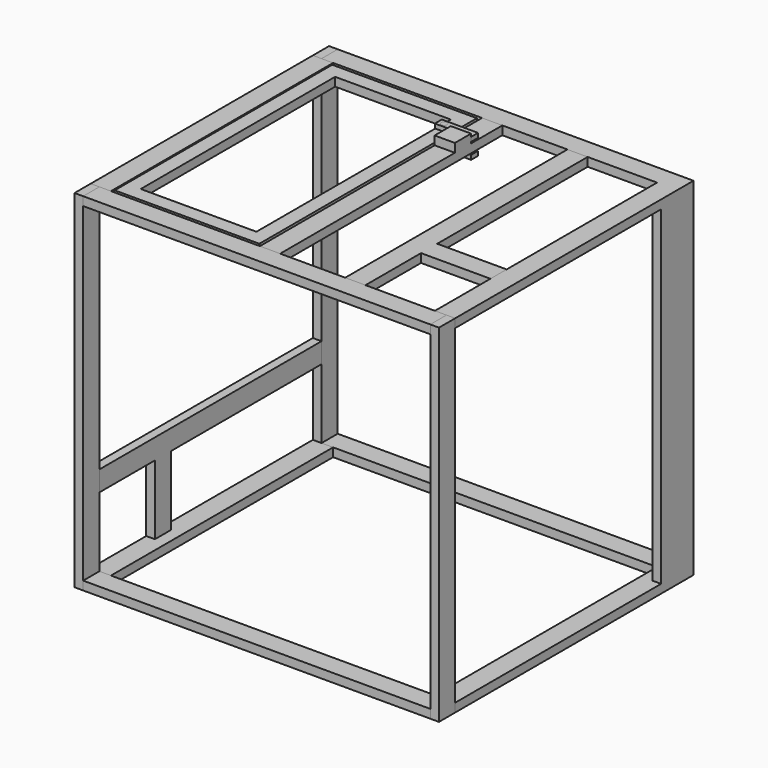
from build123d import *

# Parameters (mm, degrees)
F0_W           = 1524
F0_H           = 88.9
F1_DEPTH       = 38.1
F2_W           = 88.9
F2_H           = 1485.9
F2_H_2         = 38.1
F3_DEPTH       = 38.1
F4_W           = 88.9
F4_H           = 1485.9
F4_H_2         = 38.1
F5_DEPTH       = 38.1
F6_W           = 88.9
F6_H           = 38.1
F7_DEPTH       = 1524
F8_W           = 88.9
F8_H           = 38.1
F9_DEPTH       = 1219.2
F8_W_2         = 50.8
F8_W_3         = 38.1
F12_DEPTH      = 88.9
F13_W          = 508
F13_H          = 63.5
F14_DEPTH      = 38.1
F15_W          = 88.9
F15_H          = 1219.2
F16_DEPTH      = 38.1
F17_R          = 12.7
F18_DEPTH      = 25.4
F18_DEPTH_BACK = 63.5
F19_W          = 158.75
F19_H          = 38.1
F19_R          = 12.7
F20_DEPTH      = 19.05
F23_W          = 88.9
F23_H          = 88.9
F24_DEPTH      = 38.1
F25_W          = 304.8
F25_H          = 88.9
F26_DEPTH      = 38.1
F27_W          = 88.9
F27_H          = 304.8
F28_DEPTH      = 38.1


with BuildPart() as f1:
    # F0 (on Top) → F1 (new body)
    with BuildSketch(Plane.XY):
        with Locations((660.9481970845, 44.45)):
            Rectangle(F0_W, F0_H)
    extrude(amount=F1_DEPTH)


with BuildPart() as f3:
    # F2 (on face) → F3 (new body)
    with BuildSketch(Plane.YZ.offset(1422.9481970845)):
        with Locations((44.45, -742.95)):
            Rectangle(F2_W, F2_H)
        with Locations((44.45, 19.05)):
            Rectangle(F2_W, F2_H_2)
    extrude(amount=F3_DEPTH)


with BuildPart() as f5:
    # F4 (on face) → F5 (new body)
    with BuildSketch(Plane(origin=(-101.0518029155, 0, 0), x_dir=(0, -1, 0), z_dir=(-1, 0, 0))):
        with Locations((-44.45, -742.95)):
            Rectangle(F4_W, F4_H)
        with Locations((-44.45, 19.05)):
            Rectangle(F4_W, F4_H_2)
    extrude(amount=F5_DEPTH)


with BuildPart() as f7:
    # F6 (on face) → F7 (new body)
    with BuildSketch(Plane.YZ.offset(-101.0518029155)):
        with Locations((44.45, -1466.85)):
            Rectangle(F6_W, F6_H)
    extrude(amount=F7_DEPTH)


with BuildPart() as f9:
    # F8 (on face) → F9 (new body)
    with BuildSketch(Plane.XZ):
        with Locations((-94.7018029155, 19.05)):
            Rectangle(F8_W, F8_H)
    extrude(amount=F9_DEPTH)


with BuildPart() as f9b:
    # F8 (on face) → F9, piece 2 (new body)
    with BuildSketch(Plane.XZ):
        with Locations((1416.5981970845, 19.05)):
            Rectangle(F8_W, F8_H)
    extrude(amount=F9_DEPTH)


with BuildPart() as f9c:
    # F8 (on face) → F9, piece 3 (new body)
    with BuildSketch(Plane.XZ):
        with Locations((1397.5481970845, -1466.85)):
            Rectangle(F8_W_2, F8_H)
        with Locations((1441.9981970845, -1466.85)):
            Rectangle(F8_W_3, F8_H)
    extrude(amount=F9_DEPTH)


with BuildPart() as f9d:
    # F8 (on face) → F9, piece 4 (new body)
    with BuildSketch(Plane.XZ):
        with Locations((-120.1018029155, -1466.85)):
            Rectangle(F8_W_3, F8_H)
        with Locations((-75.6518029155, -1466.85)):
            Rectangle(F8_W_2, F8_H)
    extrude(amount=F9_DEPTH)


with BuildPart() as f11_1:
    # F11: instance of F7
    add(f7.part.mirror(Plane(origin=(1416.5981970845, -609.6, -1466.85), x_dir=(1, 0, 0), z_dir=(0, -1, 0))))


with BuildPart() as f11_2:
    # F11: instance of F5
    add(f5.part.mirror(Plane(origin=(1416.5981970845, -609.6, -1466.85), x_dir=(1, 0, 0), z_dir=(0, -1, 0))))


with BuildPart() as f11_3:
    # F11: instance of F1
    add(f1.part.mirror(Plane(origin=(1416.5981970845, -609.6, -1466.85), x_dir=(1, 0, 0), z_dir=(0, -1, 0))))


with BuildPart() as f11_4:
    # F11: instance of F3
    add(f3.part.mirror(Plane(origin=(1416.5981970845, -609.6, -1466.85), x_dir=(1, 0, 0), z_dir=(0, -1, 0))))


with BuildPart() as f1_1:
    add(f1.part)

    # F12 (add): a face of the model
    f12_faces = [f3.part.faces().sort_by_distance(p)[0] for p in [
        (1441.9981970845, 0, -723.9),
    ]]

    add(f3.part)  # F12 merges F3

    add(f7.part)  # F12 merges F7

    add(f9b.part)  # F12 merges F9b

    add(f9c.part)  # F12 merges F9c
    extrude(f12_faces, amount=F12_DEPTH)


with BuildPart() as f14:
    # F13 (on face) → F14 (new body)
    with BuildSketch(Plane.XY.offset(38.1)):
        Polygon((19.5981970845, -12.7), (-43.9018029155, -12.7), (-43.9018029155, -1206.5), (19.5981970845, -1206.5), (19.5981970845, -1143), (19.5981970845, -76.2), align=None)
        with Locations((273.5981970845, -44.45)):
            Rectangle(F13_W, F13_H)
        Polygon((591.0981970845, -12.7), (527.5981970845, -12.7), (527.5981970845, -76.2), (527.5981970845, -1143), (527.5981970845, -1206.5), (591.0981970845, -1206.5), align=None)
        with Locations((273.5981970845, -1174.75)):
            Rectangle(F13_W, F13_H)
    extrude(amount=-F14_DEPTH)


with BuildPart() as f16:
    # F15 (on face) → F16 (new body)
    with BuildSketch(Plane.XY.offset(38.1)):
        with Locations((648.2481970845, -609.6)):
            Rectangle(F15_W, F15_H)
    extrude(amount=-F16_DEPTH)

    # F23 (on face) → F24 (join)
    with BuildSketch(Plane.XY.offset(38.1)):
        with Locations((648.2481970845, -215.9)):
            Rectangle(F23_W, F23_H)
    extrude(amount=F24_DEPTH)


with BuildPart() as f18:
    # F17 (on face) → F18 (new body, two sides)
    with BuildSketch(Plane.XY.offset(38.1)) as f18_sk:
        with Locations((559.3481970845, -152.4)):
            Circle(F17_R)
    extrude(amount=F18_DEPTH)
    extrude(f18_sk.sketch, amount=-F18_DEPTH_BACK)

    # F19 (on face) → F20 (join)
    with BuildSketch(Plane.XY.offset(63.5)):
        with Locations((613.3231970845, -152.4)):
            Rectangle(F19_W, F19_H)
        with Locations((559.3481970845, -152.4)):
            Circle(F19_R, mode=Mode.SUBTRACT)
    extrude(amount=-F20_DEPTH)


with BuildPart() as f22_1:
    # F22: instance of F18
    add(f18.part.mirror(Plane(origin=(648.2481970845, -609.6, 19.05), x_dir=(1, 0, 0), z_dir=(0, 0, 1))))


with BuildPart() as f26:
    # F25 (on face) → F26 (new body)
    with BuildSketch(Plane.XY.offset(38.1)):
        with Locations((1219.7481970845, -869.95)):
            Rectangle(F25_W, F25_H)
        Polygon((1067.3481970845, -825.5), (1067.3481970845, 0), (978.4481970845, 0), (978.4481970845, -1219.2), (1067.3481970845, -1219.2), (1067.3481970845, -914.4), align=None)
    extrude(amount=-F26_DEPTH)


with BuildPart() as f28:
    # F27 (on face) → F28 (new body)
    with BuildSketch(Plane(origin=(-139.1518029155, 0, 0), x_dir=(0, -1, 0), z_dir=(-1, 0, 0))):
        Polygon((1219.2, -1143), (1219.2, -1054.1), (0, -1054.1), (0, -1143), (825.5, -1143), (914.4, -1143), align=None)
        with Locations((869.95, -1295.4)):
            Rectangle(F27_W, F27_H)
    extrude(amount=-F28_DEPTH)


solid = Compound([f5.part, f9.part, f9d.part, f11_1.part, f11_2.part, f11_3.part, f11_4.part, f1_1.part, f14.part, f16.part, f18.part, f22_1.part, f26.part, f28.part])
